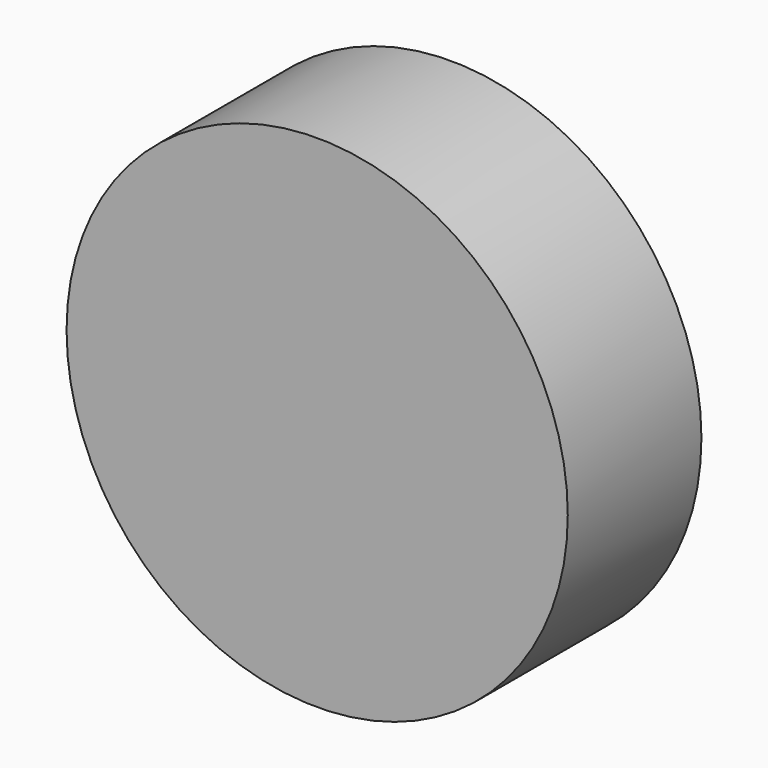
from build123d import *

# Parameters (mm, degrees)
SKETCH_R  = 15
PAD_DEPTH = 10


with BuildPart() as part:
    # Sketch → Pad (new body)
    with BuildSketch(Plane.XZ):
        Circle(SKETCH_R)
    extrude(amount=PAD_DEPTH)


solid = part.part
